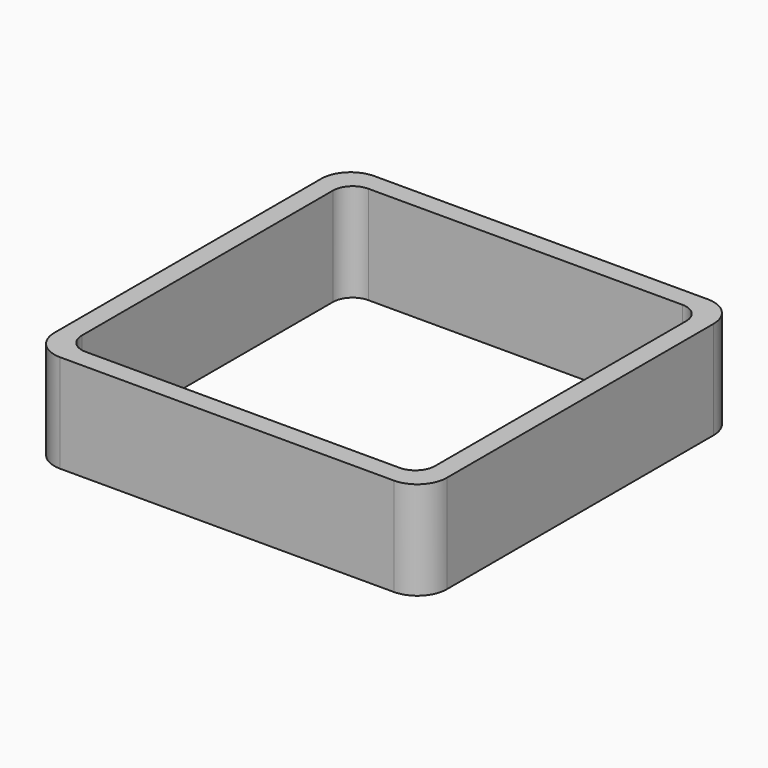
from build123d import *

# Parameters (mm, degrees)
EXTRUDE_DEPTH = 50


with BuildPart() as part:
    # Sketch → Extrude (new body)
    with BuildSketch(Plane.XY):
        with BuildLine():
            Line((-85, 100), (85, 100))
            ThreePointArc((100, 85), (95.606602, 95.606602), (85, 100))
            Line((100, 85), (100, -85))
            ThreePointArc((85, -100), (95.606602, -95.606602), (100, -85))
            Line((85, -100), (-85, -100))
            ThreePointArc((-100, -85), (-95.606602, -95.606602), (-85, -100))
            Line((-100, -85), (-100, 85))
            ThreePointArc((-85, 100), (-95.606602, 95.606602), (-100, 85))
        make_face()
        with BuildLine():
            Line((-80, 90), (80, 90))
            ThreePointArc((90, 80), (87.071068, 87.071068), (80, 90))
            Line((90, 80), (90, -80))
            ThreePointArc((80, -90), (87.071068, -87.071068), (90, -80))
            Line((80, -90), (-80, -90))
            ThreePointArc((-90, -80), (-87.071068, -87.071068), (-80, -90))
            Line((-90, -80), (-90, 80))
            ThreePointArc((-80, 90), (-87.071068, 87.071068), (-90, 80))
        make_face(mode=Mode.SUBTRACT)
    extrude(amount=EXTRUDE_DEPTH)


solid = part.part
